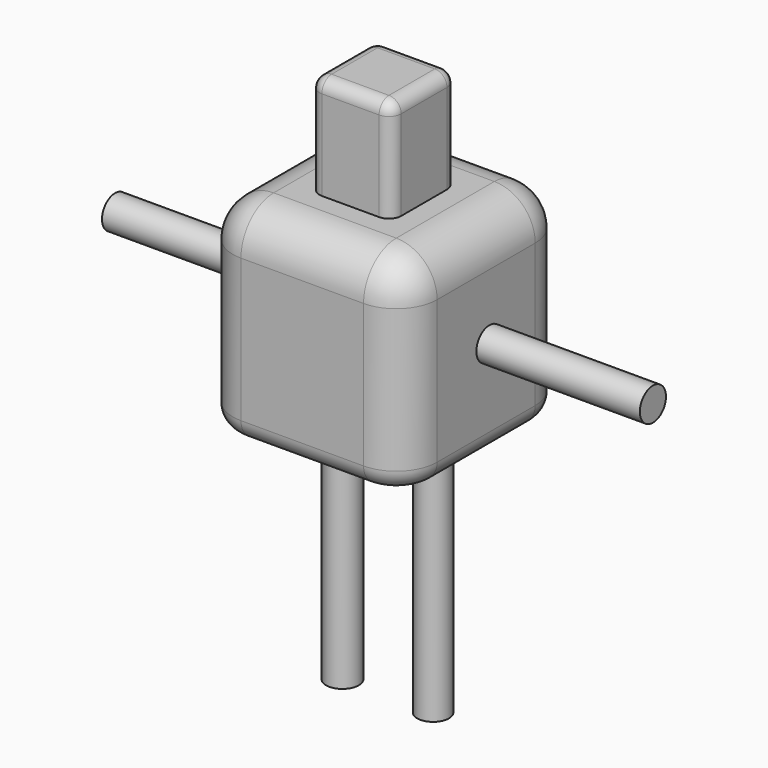
from build123d import *

# Parameters (mm, degrees)
F0_W      = 50
F0_H      = 50
F1_DEPTH  = 50
F2_W      = 20
F2_H      = 20
F3_DEPTH  = 25
F4_R      = 4
F5_DEPTH  = 40
F6_R      = 4
F7_DEPTH  = 40
F8_R      = 4
F10_DEPTH = 60
F9_R      = 3.879999
F11_DEPTH = 60
F12_R     = 10
F13_R     = 10
F14_R     = 10
F15_R     = 10
F16_R     = 3
F17_R     = 5


with BuildPart() as f1:
    # F0 (on Top) → F1 (new body)
    with BuildSketch(Plane.XY):
        with Locations((25, 25)):
            Rectangle(F0_W, F0_H)
    extrude(amount=F1_DEPTH)

    # F2 (on face) → F3 (join)
    with BuildSketch(Plane.XY.offset(50)):
        with Locations((25, 24.755215)):
            Rectangle(F2_W, F2_H)
    extrude(amount=F3_DEPTH)

    # F4 (on face) → F5 (join)
    with BuildSketch(Plane.YZ.offset(50)):
        with Locations((26, 24)):
            Circle(F4_R)
    extrude(amount=F5_DEPTH)

    # F6 (on face) → F7 (join)
    with BuildSketch(Plane(origin=(0, 0, 0), x_dir=(0, -1, 0), z_dir=(-1, 0, 0))):
        with Locations((-24, 24)):
            Circle(F6_R)
    extrude(amount=F7_DEPTH)

    # F8 (on face) → F10 (join)
    with BuildSketch(Plane(origin=(0, 0, 0), x_dir=(1, 0, 0), z_dir=(0, 0, -1))):
        with Locations((14, -26.046494)):
            Circle(F8_R)
    extrude(amount=F10_DEPTH)

    # F9 (on face) → F11 (join)
    with BuildSketch(Plane(origin=(0, 0, 0), x_dir=(1, 0, 0), z_dir=(0, 0, -1))):
        with Locations((36.120001, -26.120001)):
            Circle(F9_R)
    extrude(amount=F11_DEPTH)

    # F12
    f12_edges = [f1.edges().sort_by_distance(p)[0] for p in [
        (25, 0, 50),
    ]]
    fillet(f12_edges, radius=F12_R)

    # F13
    f13_edges = [f1.edges().sort_by_distance(p)[0] for p in [
        (25, 50, 50),
    ]]
    fillet(f13_edges, radius=F13_R)

    # F14
    f14_edges = [f1.edges().sort_by_distance(p)[0] for p in [
        (50, 25, 50),
    ]]
    fillet(f14_edges, radius=F14_R)

    # F15
    f15_edges = [f1.edges().sort_by_distance(p)[0] for p in [
        (0, 25, 50),
    ]]
    fillet(f15_edges, radius=F15_R)

    # F16
    f16_edges = [f1.edges().sort_by_distance(p)[0] for p in [
        (25, 34.755215, 75),
        (15, 34.755215, 62.5),
        (35, 34.755215, 62.5),
        (15, 24.755215, 75),
        (15, 14.755215, 62.5),
        (25, 14.755215, 75),
        (35, 14.755215, 62.5),
        (35, 24.755215, 75),
    ]]
    fillet(f16_edges, radius=F16_R)

    # F17
    f17_edges = [f1.edges().sort_by_distance(p)[0] for p in [
        (25, 0, 0),
    ]]
    fillet(f17_edges, radius=F17_R)


solid = f1.part
